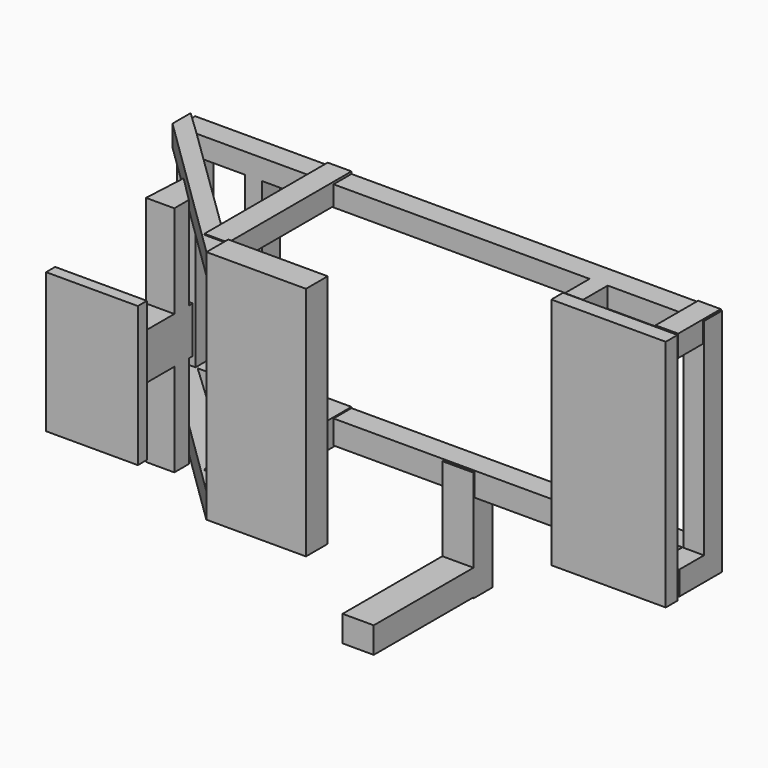
from build123d import *

# Parameters (mm, degrees)
F0_W           = 3.286678344
F0_H           = 16.0225424916
F0_H_2         = 17.6658798009
F0_W_2         = 3.0812583864
F0_W_3         = 3.0812565237
F0_W_4         = 3.6975108087
F1_DEPTH       = 4.064
F2_W           = 4.3137613684
F2_H           = 4.7245956957
F2_H_2         = 3.9029289037
F3_DEPTH       = 27.94
F5_START       = 17.78
F5_DEPTH       = 3.81
F7_START       = -16.002
F7_DEPTH       = 4.572
F9_START       = -7.62
F8_W           = 4.9300119281
F8_H           = 42.7267793566
F9_DEPTH       = 18.034
F10_W          = 3.9029307663
F10_H          = 4.3137613684
F10_W_2        = 4.1083432734
F10_H_2        = 3.9029251784
F10_W_3        = 3.2866764814
F10_H_3        = 3.6975089461
F10_H_4        = 4.1083432734
F11_DEPTH      = 9.652
F12_W          = 20.7471400499
F12_H          = 2.670424059
F13_DEPTH      = 21.59
F13_DEPTH_BACK = 20.828
F15_START      = -16.256
F14_W          = 5.6489729322
F14_H          = 4.3137613684
F15_DEPTH      = 20.066
F16_W          = 5.6489729322
F16_H          = 4.7245956957
F17_DEPTH      = 26.924
F19_DEPTH      = 21.59
F19_DEPTH_BACK = 20.574
F21_START      = 20.066
F20_W          = 4.9300119281
F20_H          = 8.4221053403
F21_DEPTH      = 17.018
F22_W          = 16.6387930512
F22_H          = 2.0541734993
F23_DEPTH      = 13.97
F23_DEPTH_BACK = 11.43


with BuildPart() as f1:
    # F0 (on Front) → F1 (new body)
    with BuildSketch(Plane.XZ):
        Polygon((-53.9220161736, 21.363388747), (-53.9220161736, 17.6658798009), (-50.6353378296, 17.6658798009), (-41.5969826281, 17.6658798009), (-38.5157242417, 17.6658798009), (20.6444300711, 17.6658798009), (23.7256865948, 17.6658798009), (37.8994755447, 17.6658798009), (41.5969863534, 17.6658798009), (41.5969863534, 21.363388747), align=None)
        Polygon((-50.6353378296, -16.0225424916), (-53.9220161736, -16.0225424916), (-53.9220161736, -20.3363038599), (41.5969863534, -20.3363038599), (41.5969863534, -16.0225424916), (37.8994755447, -16.0225424916), (23.7256865948, -16.0225424916), (20.6444300711, -16.0225424916), (-38.5157242417, -16.0225424916), (-41.5969826281, -16.0225424916), align=None)
        with Locations((-52.2786770016, -8.0112712458)):
            Rectangle(F0_W, F0_H)
        with Locations((-52.2786770016, 8.8329399005)):
            Rectangle(F0_W, F0_H_2)
        with Locations((-40.0563534349, 8.8329399005)):
            Rectangle(F0_W_2, F0_H_2)
        with Locations((-40.0563534349, -8.0112712458)):
            Rectangle(F0_W_2, F0_H)
        with Locations((22.185058333, 8.8329399005)):
            Rectangle(F0_W_3, F0_H_2)
        with Locations((22.185058333, -8.0112712458)):
            Rectangle(F0_W_3, F0_H)
        with Locations((39.748230949, -8.0112712458)):
            Rectangle(F0_W_4, F0_H)
        with Locations((39.748230949, 8.8329399005)):
            Rectangle(F0_W_4, F0_H_2)
    extrude(amount=F1_DEPTH)

    # F2 (on Front) → F3 (join)
    with BuildSketch(Plane.XZ):
        with Locations((-27.7313226834, -18.1794222444)):
            Rectangle(F2_W, F2_H)
        with Locations((-27.7313226834, 19.8227604851)):
            Rectangle(F2_W, F2_H_2)
    extrude(amount=F3_DEPTH)

    # F4 (on Top) → F5 (join)
    with BuildSketch(Plane.XY.offset(F5_START)):
        Polygon((-25.7798600942, -28.1421579421), (-50.2245053649, -4.3137613684), (-54.7436848283, 0), (-54.7436848283, -4.1083442047), (-25.7798600942, -32.4559174478), align=None)
    extrude(amount=F5_DEPTH)

    # F6 (on Top) → F7 (join)
    with BuildSketch(Plane.XY.offset(F7_START)):
        Polygon((-54.5382685959, -4.5191785321), (-25.7798582315, -32.6613374054), (-25.7798582315, -27.1150693297), (-54.5382685959, 0), align=None)
    extrude(amount=-F7_DEPTH)

    # F8 (on Right) → F9 (join)
    with BuildSketch(Plane.YZ.offset(F9_START)):
        with Locations((-30.2990376949, 0.821669586)):
            Rectangle(F8_W, F8_H)
    extrude(amount=-F9_DEPTH)

    # F10 (on Front) → F11 (join)
    with BuildSketch(Plane.XZ):
        with Locations((39.6455209702, -18.1794231758)):
            Rectangle(F10_W, F10_H)
        with Locations((39.3373947591, 19.6173423901)):
            Rectangle(F10_W_2, F10_H_2)
        with Locations((22.4931845441, 19.5146342739)):
            Rectangle(F10_W_3, F10_H_3)
        with Locations((22.4931845441, -18.0767141283)):
            Rectangle(F10_W_3, F10_H_4)
    extrude(amount=F11_DEPTH)

    # F14 (on Top) → F15 (join)
    with BuildSketch(Plane.XY.offset(F15_START)):
        with Locations((-2.8244864661, -2.1568806842)):
            Rectangle(F14_W, F14_H)
    extrude(amount=-F15_DEPTH)

    # F16 (on Front) → F17 (join)
    with BuildSketch(Plane.XZ):
        with Locations((-2.8244864661, -33.7911304086)):
            Rectangle(F16_W, F16_H)
    extrude(amount=F17_DEPTH)


with BuildPart() as f13:
    # F12 (on Top) → F13 (new body, two sides)
    with BuildSketch(Plane.XY) as f13_sk:
        with Locations((31.2234163284, -11.400654912)):
            Rectangle(F12_W, F12_H)
    extrude(amount=F13_DEPTH)
    extrude(f13_sk.sketch, amount=-F13_DEPTH_BACK)


with BuildPart() as f19:
    # F18 (on Top) → F19 (new body, two sides)
    with BuildSketch(Plane.XY) as f19_sk:
        Polygon((-38.3103080094, -20.9525544196), (-43.0349037051, -16.2279587239), (-43.4457398951, -24.2392290384), (-38.3103080094, -24.2392290384), align=None)
    extrude(amount=F19_DEPTH)
    extrude(f19_sk.sketch, amount=-F19_DEPTH_BACK)

    # F20 (on Front) → F21 (join)
    with BuildSketch(Plane.XZ.offset(F21_START)):
        with Locations((-40.7753139734, 0.5135430256)):
            Rectangle(F20_W, F20_H)
    extrude(amount=F21_DEPTH)


with BuildPart() as f23:
    # F22 (on Top) → F23 (new body, two sides)
    with BuildSketch(Plane.XY) as f23_sk:
        with Locations((-41.0834401846, -38.4130161256)):
            Rectangle(F22_W, F22_H)
    extrude(amount=F23_DEPTH)
    extrude(f23_sk.sketch, amount=-F23_DEPTH_BACK)


solid = Compound([f1.part, f13.part, f19.part, f23.part])
